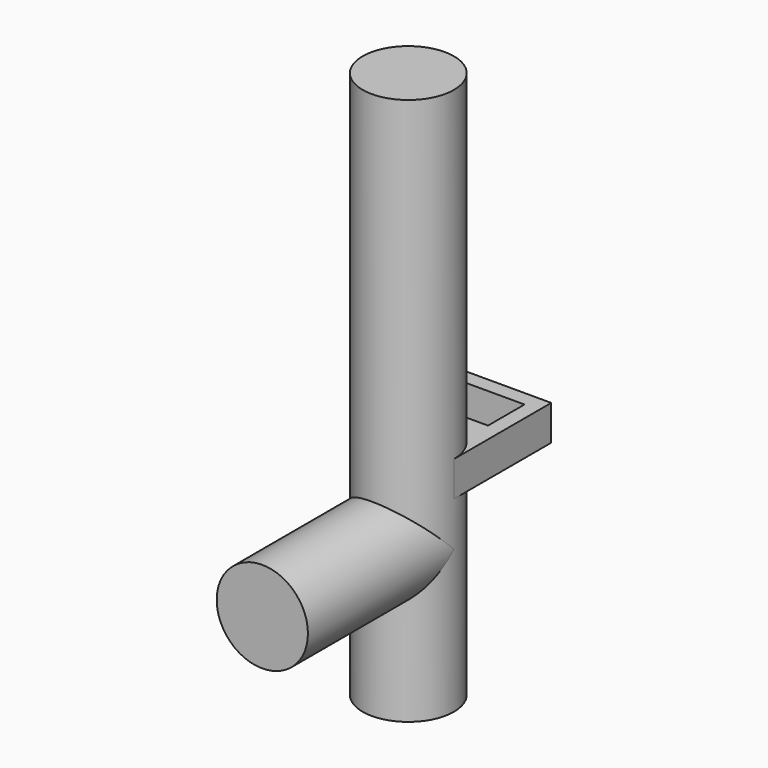
from build123d import *

# Parameters (mm, degrees)
F0_R     = 1.5
F1_DEPTH = 18
F2_R     = 1.5
F3_DEPTH = 6
F4_W     = 3
F4_H     = 1.154314
F5_DEPTH = 4
F6_W     = 2.042234
F6_H     = 1.5
F7_DEPTH = 25


with BuildPart() as f1:
    # F0 (on Top) → F1 (new body)
    with BuildSketch(Plane.XY):
        Circle(F0_R)
        Circle(F0_R)
    extrude(amount=F1_DEPTH)

    # F2 (on Front) → F3 (join)
    with BuildSketch(Plane.XZ):
        with Locations((0, 4.705742)):
            Circle(F2_R)
    extrude(amount=F3_DEPTH)

    # F4 (on Front) → F5 (join)
    with BuildSketch(Plane.XZ):
        with Locations((0, 6.738564)):
            Rectangle(F4_W, F4_H)
    extrude(amount=-F5_DEPTH)

    # F6 (on face) → F7 (cut)
    with BuildSketch(Plane.XY.offset(7.315721)):
        with Locations((0, 2.75)):
            Rectangle(F6_W, F6_H)
    extrude(amount=-F7_DEPTH, mode=Mode.SUBTRACT)


solid = f1.part
